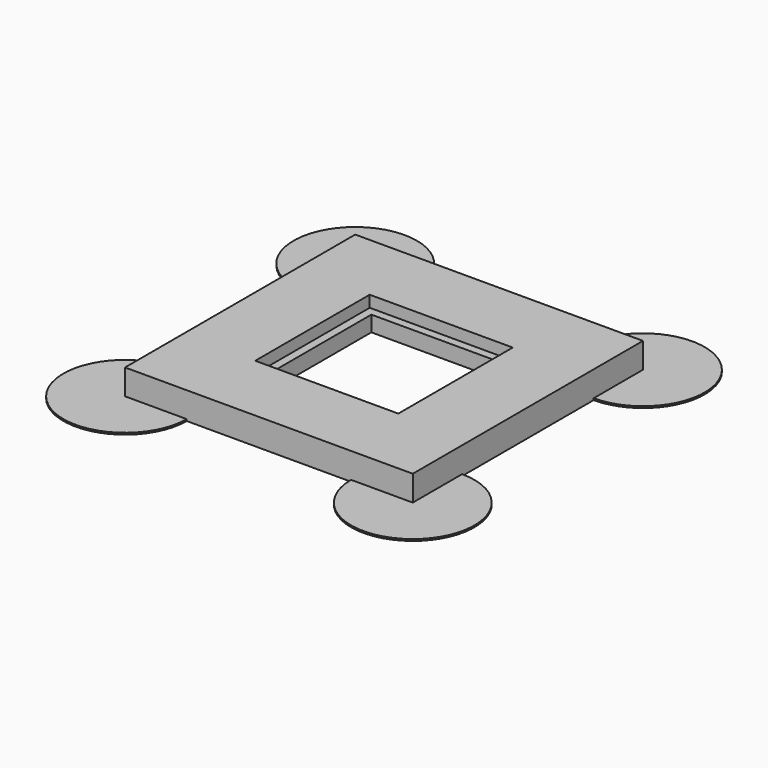
from build123d import *

# Parameters (mm, degrees)
F0_W     = 17.4
F0_H     = 17.4
F0_W_2   = 15.4
F0_H_2   = 15.4
F5_DEPTH = 1.9
F0_W_3   = 35
F0_H_3   = 35
F1_DEPTH = 1.9
F2_DEPTH = 1.4
F3_R     = 7.5
F4_DEPTH = 0.2064


with BuildPart() as f5:
    # F0 (on Top) → F5 (new body)
    with BuildSketch(Plane.XY):
        Rectangle(F0_W, F0_H)
        Rectangle(F0_W_2, F0_H_2, mode=Mode.SUBTRACT)
    extrude(amount=F5_DEPTH)



with BuildPart() as f1:
    # F0 (on Top) → F1 (new body, through all)
    with BuildSketch(Plane.XY):
        Rectangle(F0_W_3, F0_H_3)
        Rectangle(F0_W, F0_H, mode=Mode.SUBTRACT)
    extrude(amount=F1_DEPTH)


with BuildPart() as f5_1:
    add(f5.part)
    # F2 (add): a face of the model
    f2_faces = [f1.part.faces().sort_by_distance(p)[0] for p in [
        (17.0050252532, 0, 1.9),
    ]]

    add(f1.part)  # F2 merges F1
    extrude(f2_faces, amount=F2_DEPTH)

    # F3 (on Top) → F4 (join)
    with BuildSketch(Plane.XY):
        with Locations((17.5, 17.5)):
            Circle(F3_R)
        with Locations((-17.5, 17.5)):
            Circle(F3_R)
        with Locations((-17.5, -17.5)):
            Circle(F3_R)
        with Locations((17.5, -17.5)):
            Circle(F3_R)
    extrude(amount=F4_DEPTH)


solid = f5_1.part
